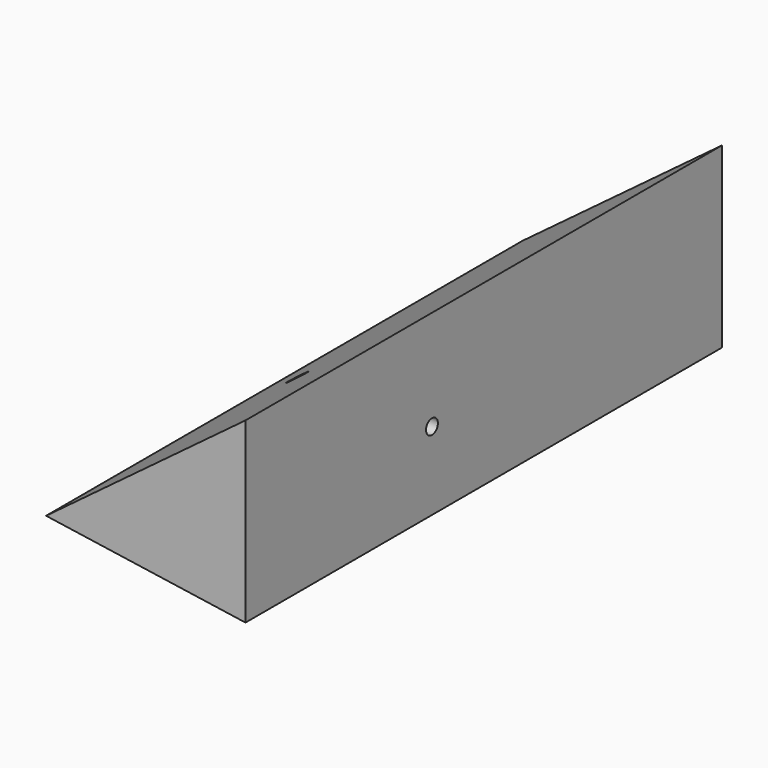
from build123d import *

# Parameters (mm, degrees)
F1_DEPTH = 254
F3_D     = 6.35


with BuildPart() as f1:
    # F0 (on Front) → F1 (new body)
    with BuildSketch(Plane.XZ):
        Polygon((36.719888, 42.73618), (-48.337549, -20.74571), (36.719888, -33.193141), align=None)
    extrude(amount=F1_DEPTH)

    # F3 (through all)
    with Locations(Plane.YZ.offset(36.719888)):
        with Locations((-154.593214, 0)):
            Hole(F3_D / 2)


solid = f1.part
